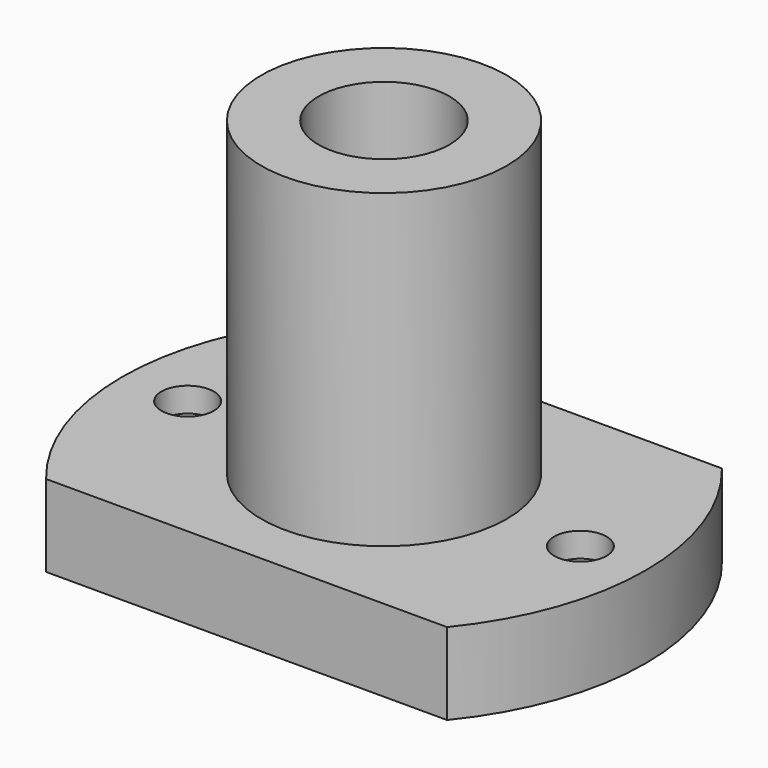
from build123d import *

# Parameters (mm, degrees)
PAD_DEPTH       = 5
SKETCH001_R     = 1.6
POCKET_DEPTH    = 5.001
SKETCH002_R     = 7.5
PAD001_DEPTH    = 19
SKETCH003_R     = 4
POCKET001_DEPTH = 24.001
SKETCH004_R     = 3
POCKET002_DEPTH = 3.5


with BuildPart() as part:
    # Sketch → Pad (new body)
    with BuildSketch(Plane.XY):
        with BuildLine():
            Line((-12.25, -10.5), (12.25, -10.5))
            ThreePointArc((12.25, -10.5), (15.993585, 0), (12.25, 10.5))
            Line((12.25, 10.5), (-12.25, 10.5))
            ThreePointArc((-12.25, 10.5), (-16.007739, 0), (-12.25, -10.5))
        make_face()
    extrude(amount=PAD_DEPTH)

    # Sketch001 (on Face6 of Pad) → Pocket (cut, through all)
    with BuildSketch(Plane.XY.offset(5)):
        with Locations((-12, 0)):
            Circle(SKETCH001_R)
        with Locations((12, 0)):
            Circle(SKETCH001_R)
    extrude(amount=-POCKET_DEPTH, mode=Mode.SUBTRACT)

    # Sketch002 (on Face5 of Pocket) → Pad001 (join)
    with BuildSketch(Plane.XY.offset(5)):
        Circle(SKETCH002_R)
    extrude(amount=PAD001_DEPTH)

    # Sketch003 (on Face10 of Pad001) → Pocket001 (cut, through all)
    with BuildSketch(Plane.XY.offset(24)):
        Circle(SKETCH003_R)
    extrude(amount=-POCKET001_DEPTH, mode=Mode.SUBTRACT)

    # Sketch004 (on Face4 of Pocket001) → Pocket002 (cut)
    with BuildSketch(Plane(origin=(0, 0, 0), x_dir=(1, 0, 0), z_dir=(0, 0, -1))):
        with Locations((-12, 0)):
            Circle(SKETCH004_R)
        with Locations((12, 0)):
            Circle(SKETCH004_R)
    extrude(amount=-POCKET002_DEPTH, mode=Mode.SUBTRACT)


solid = part.part
